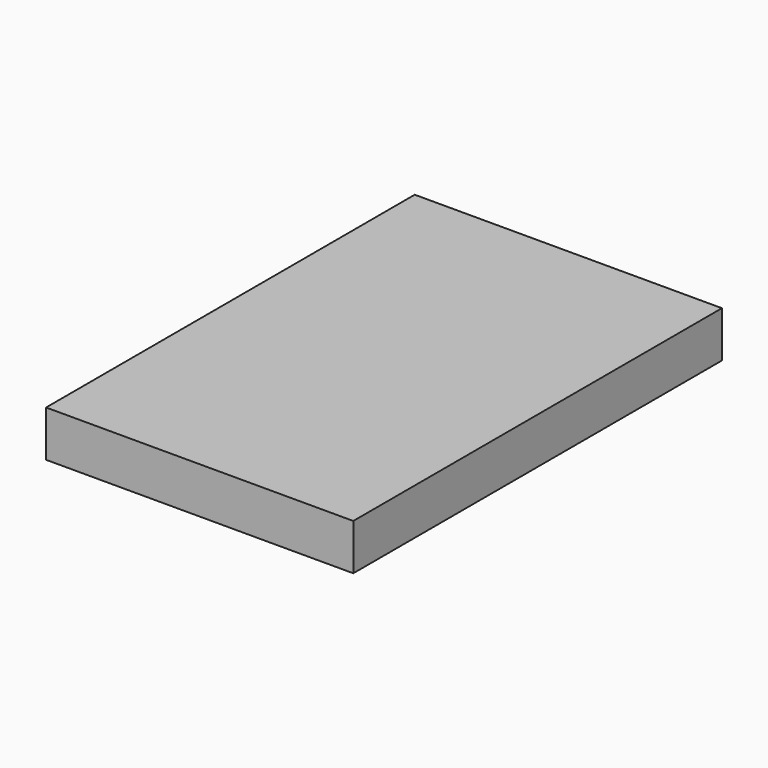
from build123d import *

# Parameters (mm, degrees)
SKETCH_W  = 20
SKETCH_H  = 30
PAD_DEPTH = 3


with BuildPart() as part:
    # Sketch → Pad (new body)
    with BuildSketch(Plane.XY):
        with Locations((6.051076, 0.117702)):
            Rectangle(SKETCH_W, SKETCH_H)
    extrude(amount=PAD_DEPTH)


solid = part.part
